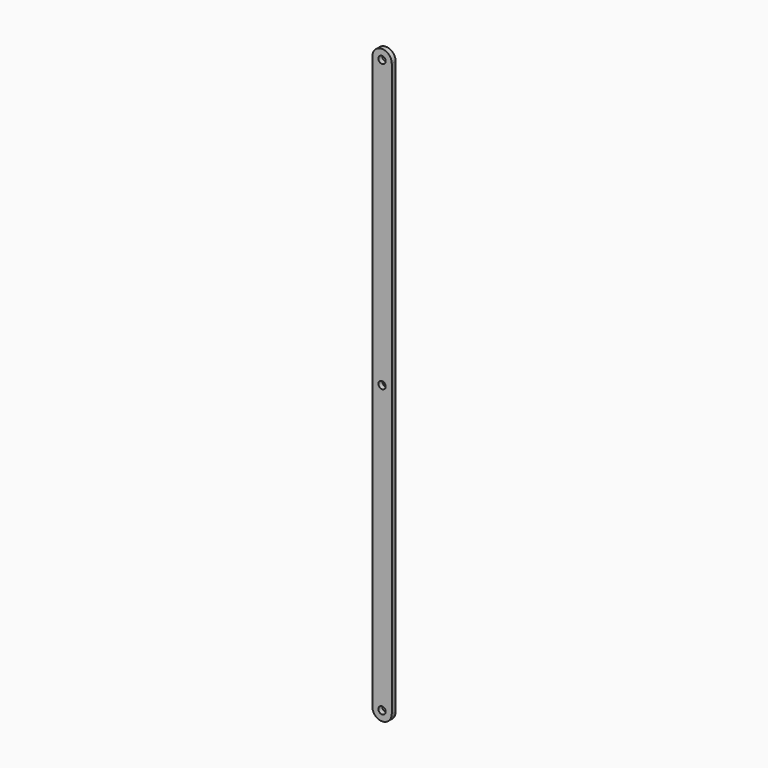
from build123d import *

# Parameters (mm, degrees)
F0_R     = 4.7625
F1_DEPTH = 6.35


with BuildPart() as f1:
    # F0 (on Front) → F1 (new body)
    with BuildSketch(Plane.XZ):
        with BuildLine():
            ThreePointArc((25.4, 0), (12.7, 12.7), (0, 0))
            Line((0, 0), (0, -750))
            ThreePointArc((0, -750), (12.7, -762.7), (25.4, -750))
            Line((25.4, -750), (25.4, 0))
        make_face()
        with Locations((12.7, -750)):
            Circle(F0_R, mode=Mode.SUBTRACT)
        with Locations((12.7, -375)):
            Circle(F0_R, mode=Mode.SUBTRACT)
        with Locations((12.7, 0)):
            Circle(F0_R, mode=Mode.SUBTRACT)
    extrude(amount=F1_DEPTH)


solid = f1.part
